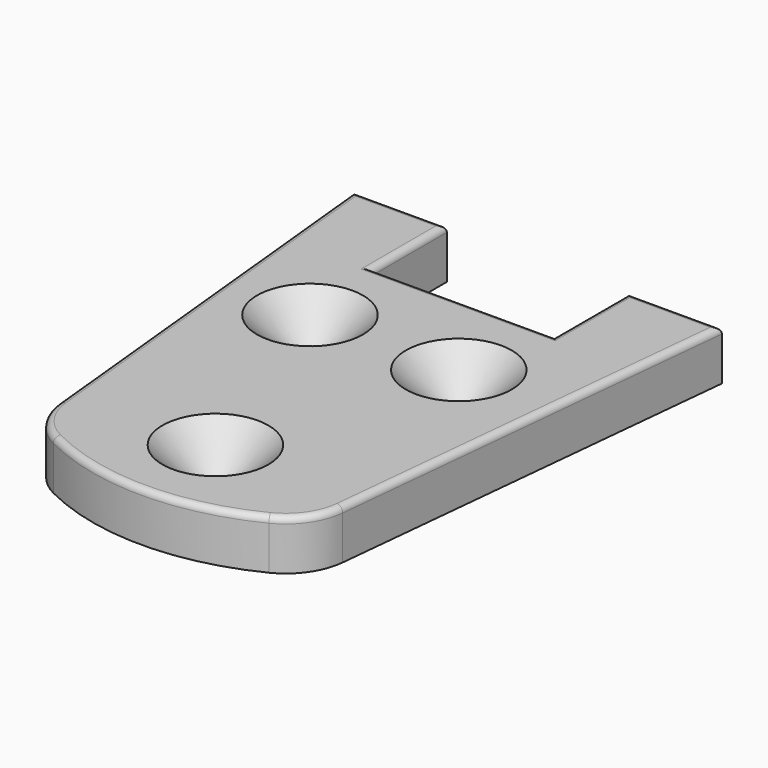
from build123d import *

# Parameters (mm, degrees)
F0_R     = 1.594655
F1_DEPTH = 5.08
F2_SIZE  = 3.81
F3_R     = 0.635


with BuildPart() as f1:
    # F0 (on Top) → F1 (new body)
    with BuildSketch(Plane.XY):
        with BuildLine():
            Line((4e-06, 50.8), (4.326784, 7.804318))
            ThreePointArc((4.326784, 7.804318), (5.417594, 4.834844), (7.805764, 2.760165))
            ThreePointArc((7.805764, 2.760165), (18.806149, 0.162151), (29.808221, 2.753011))
            ThreePointArc((29.808221, 2.753011), (32.2, 4.829412), (33.291277, 7.802822))
            Line((33.291277, 7.802822), (37.592004, 50.8))
            Line((37.592004, 50.8), (28.067004, 50.8))
            Line((28.067004, 50.8), (28.067004, 41.275))
            Line((28.067004, 41.275), (9.525004, 41.275))
            Line((9.525004, 41.275), (9.525004, 50.8))
            Line((9.525004, 50.8), (4e-06, 50.8))
        make_face()
        with Locations((18.796004, 9.68716)):
            Circle(F0_R, mode=Mode.SUBTRACT)
        with Locations((10.668004, 31.91216)):
            Circle(F0_R, mode=Mode.SUBTRACT)
        with Locations((25.851231, 31.91216)):
            Circle(F0_R, mode=Mode.SUBTRACT)
    extrude(amount=F1_DEPTH)

    # F2
    f2_edges = [f1.edges().sort_by_distance(p)[0] for p in [
        (9.073348, 31.91216, 5.08),
        (24.256576, 31.91216, 5.08),
        (17.201348, 9.68716, 5.08),
    ]]
    chamfer(f2_edges, length=F2_SIZE)

    # F3
    f3_edges = [f1.edges().sort_by_distance(p)[0] for p in [
        (18.806149, 0.162151, 5.08),
        (32.2, 4.829412, 5.08),
        (32.829504, 50.8, 5.08),
        (9.525004, 46.0375, 5.08),
        (35.441641, 29.301411, 5.08),
        (2.163394, 29.302159, 5.08),
        (4.762504, 50.8, 5.08),
        (28.067004, 46.0375, 5.08),
        (5.417594, 4.834844, 5.08),
        (18.796004, 41.275, 5.08),
    ]]
    fillet(f3_edges, radius=F3_R)


solid = f1.part
